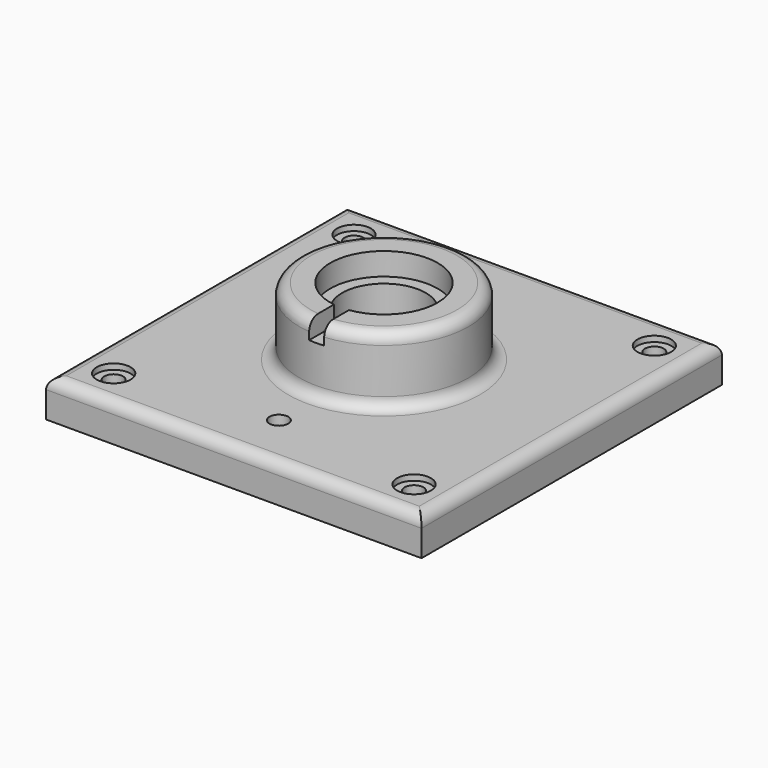
from build123d import *

# Parameters (mm, degrees)
F0_W           = 100
F0_H           = 100
F0_R           = 22.5
F1_DEPTH       = 10
F0_R_2         = 11.15
F0_R_3         = 4.75
F2_DEPTH       = 5
F0_R_4         = 14.3
F3_DEPTH       = 22
F4_DEPTH       = 28
F6_D           = 5
F6_CBORE_D     = 9
F6_CBORE_DEPTH = 1.5
F7_R           = 3
F8_W           = 4
F8_H           = 30
F9_DEPTH       = 5
F5_R           = 2.5
F10_DEPTH      = 10.001


with BuildPart() as f1:
    # F0 (on Top) → F1 (new body)
    with BuildSketch(Plane.XY):
        Rectangle(F0_W, F0_H)
        Circle(F0_R, mode=Mode.SUBTRACT)
    extrude(amount=F1_DEPTH)



with BuildPart() as f2:
    # F0 (on Top) → F2 (new body)
    with BuildSketch(Plane.XY):
        Circle(F0_R_2)
        Circle(F0_R_3, mode=Mode.SUBTRACT)
    extrude(amount=F2_DEPTH)

    # F0 (on Top) → F3 (join)
    with BuildSketch(Plane.XY):
        Circle(F0_R_4)
        Circle(F0_R_2, mode=Mode.SUBTRACT)
    extrude(amount=F3_DEPTH)


with BuildPart() as f1_1:
    add(f1.part)

    add(f2.part)  # F4 merges F2
    # F0 (on Top) → F4 (join)
    with BuildSketch(Plane.XY):
        Circle(F0_R)
        Circle(F0_R_4, mode=Mode.SUBTRACT)
    extrude(amount=F4_DEPTH)

    # F6 (through all)
    with Locations(Plane.XY.offset(10)):
        with Locations((-40, 40), (40, 40), (40, -40), (-40, -40)):
            CounterBoreHole(F6_D / 2, F6_CBORE_D / 2, F6_CBORE_DEPTH)

    # F7
    f7_edges = [f1_1.edges().sort_by_distance(p)[0] for p in [
        (-50, 0, 10),
        (0, 50, 10),
        (50, 0, 10),
        (0, -50, 10),
        (-22.5, 0, 10),
        (-22.5, 0, 28),
    ]]
    fillet(f7_edges, radius=F7_R)

    # F8 (on face) → F9 (cut)
    with BuildSketch(Plane.XY.offset(28)):
        with Locations((0, -15)):
            Rectangle(F8_W, F8_H)
    extrude(amount=-F9_DEPTH, mode=Mode.SUBTRACT)

    # F5 (on face) → F10 (cut, through all)
    with BuildSketch(Plane.XY.offset(10)):
        with Locations((0, -35)):
            Circle(F5_R)
    extrude(amount=-F10_DEPTH, mode=Mode.SUBTRACT)


solid = f1_1.part
